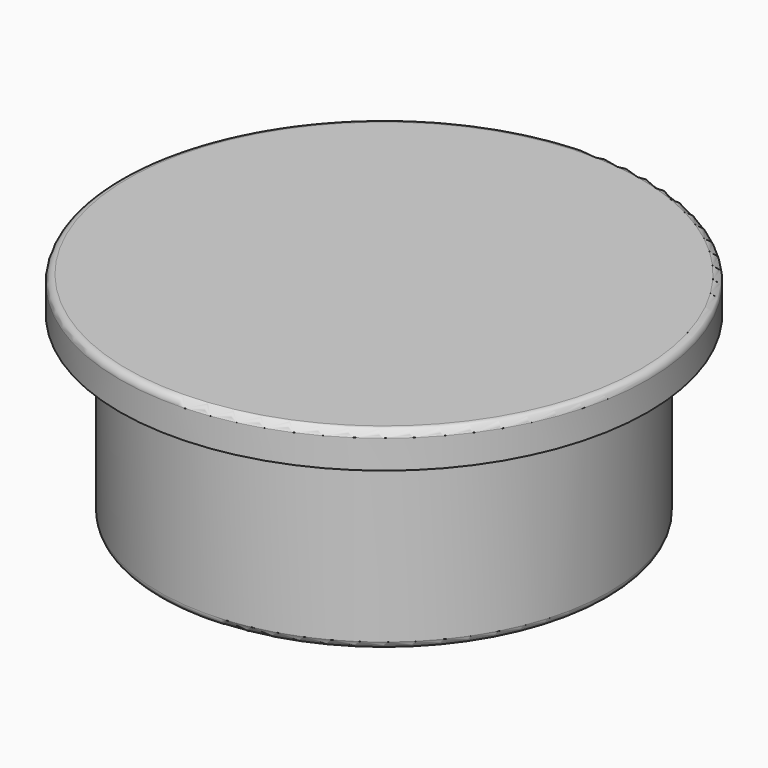
from build123d import *

# Parameters (mm, degrees)
F0_R     = 31.5
F0_R_2   = 26.5
F1_DEPTH = 25
F2_R     = 37
F2_R_2   = 31.5
F2_R_3   = 26.5
F3_DEPTH = 5
F4_R     = 1
F5_R     = 1
F6_R     = 5


with BuildPart() as f1:
    # F0 (on Top) → F1 (new body)
    with BuildSketch(Plane.XY):
        Circle(F0_R)
        Circle(F0_R_2, mode=Mode.SUBTRACT)
    extrude(amount=F1_DEPTH)

    # F2 (on face) → F3 (join)
    with BuildSketch(Plane.XY.offset(25)):
        Circle(F2_R)
        Circle(F2_R_2, mode=Mode.SUBTRACT)
        Circle(F2_R_2)
        Circle(F2_R_3, mode=Mode.SUBTRACT)
        Circle(F2_R_3)
    extrude(amount=F3_DEPTH)

    # F4
    f4_edges = [f1.edges().sort_by_distance(p)[0] for p in [
        (-37, 0, 30),
    ]]
    fillet(f4_edges, radius=F4_R)

    # F5
    f5_edges = [f1.edges().sort_by_distance(p)[0] for p in [
        (-31.5, 0, 0),
    ]]
    fillet(f5_edges, radius=F5_R)

    # F6
    f6_edges = [f1.edges().sort_by_distance(p)[0] for p in [
        (-26.5, 0, 25),
    ]]
    fillet(f6_edges, radius=F6_R)


solid = f1.part
